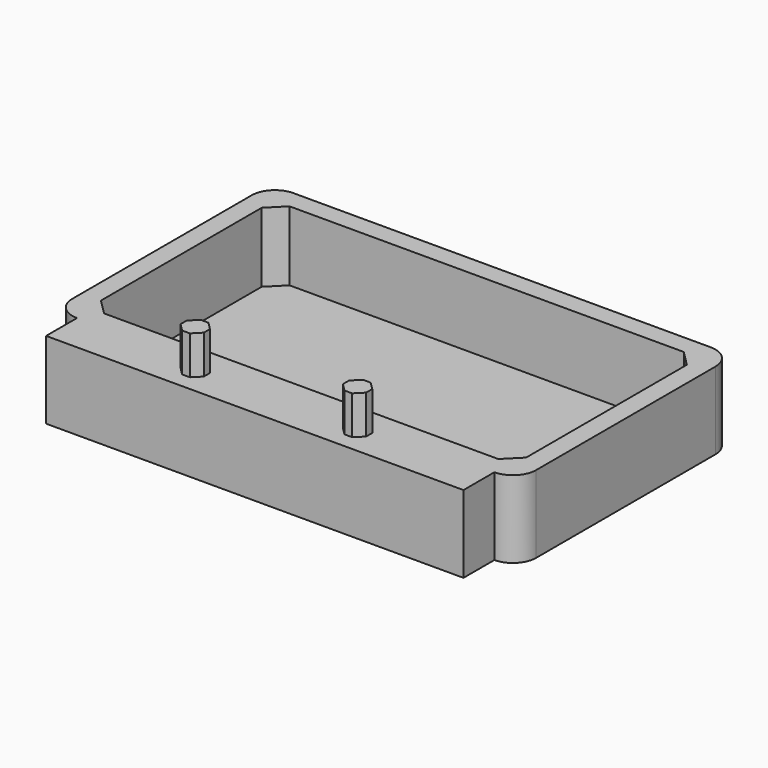
from build123d import *

# Parameters (mm, degrees)
F0_W      = 139.7
F0_H      = 76.2
F1_DEPTH  = 25.4
F2_SIZE   = 5.08
F3_W      = 144.291125
F3_H      = 81.529271
F4_DEPTH  = 2.54
F1_FACE_W = 137.16
F1_FACE_H = 25.4
F5_DEPTH  = 12.7
F6_W      = 7.62
F6_H      = 7.62
F7_DEPTH  = 12.7
F8_SIZE   = 2.54
F9_SIZE   = 2.54
F10_SIZE  = 2.54
F11_SIZE  = 2.54


with BuildPart() as f1:
    # F0 (on Top) → F1 (new body)
    with BuildSketch(Plane.XY):
        with BuildLine():
            ThreePointArc((76.2, 36.83), (73.968154, 42.218154), (68.58, 44.45))
            Line((68.58, 44.45), (-68.58, 44.45))
            ThreePointArc((-68.58, 44.45), (-73.968154, 42.218154), (-76.2, 36.83))
            Line((-76.2, 36.83), (-76.2, -36.83))
            ThreePointArc((-76.2, -36.83), (-73.968154, -42.218154), (-68.58, -44.45))
            Line((-68.58, -44.45), (68.58, -44.45))
            ThreePointArc((68.58, -44.45), (73.968154, -42.218154), (76.2, -36.83))
            Line((76.2, -36.83), (76.2, 36.83))
        make_face()
        Rectangle(F0_W, F0_H, mode=Mode.SUBTRACT)
    extrude(amount=F1_DEPTH)

    # F2
    f2_edges = [f1.edges().sort_by_distance(p)[0] for p in [
        (-69.85, 38.1, 12.7),
        (-69.85, -38.1, 12.7),
        (69.85, 38.1, 12.7),
        (69.85, -38.1, 12.7),
    ]]
    chamfer(f2_edges, length=F2_SIZE)

    # F3 (on Top) → F4 (join)
    with BuildSketch(Plane.XY):
        with Locations((-0.039962, 0.51033)):
            Rectangle(F3_W, F3_H)
    extrude(amount=F4_DEPTH)

    # F1_face (on face) → F5 (join)
    with BuildSketch(Plane(origin=(0, -44.45, 12.7), x_dir=(1, 0, 0), z_dir=(0, -1, 0))):
        Rectangle(F1_FACE_W, F1_FACE_H)
    extrude(amount=F5_DEPTH)

    # F6 (on face) → F7 (join)
    with BuildSketch(Plane.XY.offset(25.4)):
        with Locations((26.67, -48.26)):
            Rectangle(F6_W, F6_H)
        with Locations((-26.67, -48.26)):
            Rectangle(F6_W, F6_H)
    extrude(amount=F7_DEPTH)

    # F8
    f8_edges = [f1.edges().sort_by_distance(p)[0] for p in [
        (30.48, -44.45, 31.75),
    ]]
    chamfer(f8_edges, length=F8_SIZE)

    # F9
    f9_edges = [f1.edges().sort_by_distance(p)[0] for p in [
        (22.86, -44.45, 31.75),
        (22.86, -52.07, 31.75),
    ]]
    chamfer(f9_edges, length=F9_SIZE)

    # F10
    f10_edges = [f1.edges().sort_by_distance(p)[0] for p in [
        (30.48, -52.07, 31.75),
    ]]
    chamfer(f10_edges, length=F10_SIZE)

    # F11
    f11_edges = [f1.edges().sort_by_distance(p)[0] for p in [
        (-30.48, -44.45, 31.75),
        (-22.86, -44.45, 31.75),
        (-30.48, -52.07, 31.75),
        (-22.86, -52.07, 31.75),
    ]]
    chamfer(f11_edges, length=F11_SIZE)


solid = f1.part
